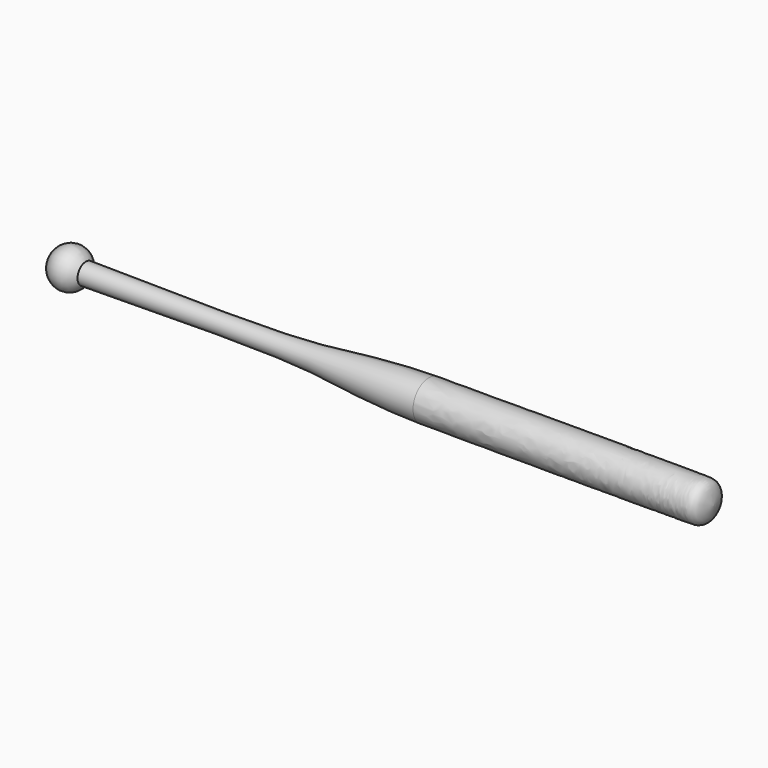
from build123d import *


with BuildPart() as f1:
    # F0 (on Front) → F1 (revolve)
    with BuildSketch(Plane.XZ):
        with BuildLine():
            add(Edge.make_bspline(
                [(-37.4964202379, 1.1421234284), (-13.9278701148, 0.80981308), (-13.0030397137, 1.3635784524), (-2.7312771649, 2.1504286233), (0, 2.1504286233)],
                knots=[0.0149561391, 0.0149561391, 0.0149561391, 0.0149561391, 0.6489047613, 1, 1, 1, 1], degree=3))
            add(Edge.make_bspline(
                [(-37.1888215015, 0), (-37.1888215015, 0.6182662922), (-37.4964202379, 1.1421234284)],
                knots=[4.7123889804, 4.7123889804, 4.7123889804, 5.2723041423, 5.2723041423, 5.2723041423], degree=2, weights=[1, 0.9610671602, 1]))
            Line((-37.1888215015, 0), (31.1625732063, 0))
            add(Edge.make_bspline(
                [(0, 2.1504286233), (22.9986030608, 2.2097276524), (28.0467875477, 2.1414024984), (30.9493709121, 2.1504286233), (31.1625732063, 0)],
                knots=[0, 0, 0, 0, 0.7666198927, 1, 1, 1, 1], degree=3))
        make_face()
    revolve(axis=Axis((-5.0275254871, 0, 0), (1, 0, 0)))

    # F0 (on Front) → F2 (revolve)
    with BuildSketch(Plane.XZ):
        with BuildLine():
            add(Edge.make_bspline(
                [(-37.4964202379, 1.1421234284), (-38.0884774659, 2.1504286233), (-39.203222841, 2.1504286233)],
                knots=[5.2723041423, 5.2723041423, 5.2723041423, 6.2831853072, 6.2831853072, 6.2831853072], degree=2, weights=[1, 0.8749612324, 1]))
            add(Edge.make_bspline(
                [(-39.203222841, 2.1504286233), (-41.2176241806, 2.1504286233), (-41.2176241806, 0)],
                knots=[0, 0, 0, 1.5707963268, 1.5707963268, 1.5707963268], degree=2, weights=[1, 0.7071067812, 1]))
            Line((-41.2176241806, 0), (-37.1888215015, 0))
            add(Edge.make_bspline(
                [(-37.1888215015, 0), (-37.1888215015, 0.6182662922), (-37.4964202379, 1.1421234284)],
                knots=[4.7123889804, 4.7123889804, 4.7123889804, 5.2723041423, 5.2723041423, 5.2723041423], degree=2, weights=[1, 0.9610671602, 1]))
        make_face()
    revolve(axis=Axis((-5.0275254871, 0, 0), (1, 0, 0)))


solid = f1.part
